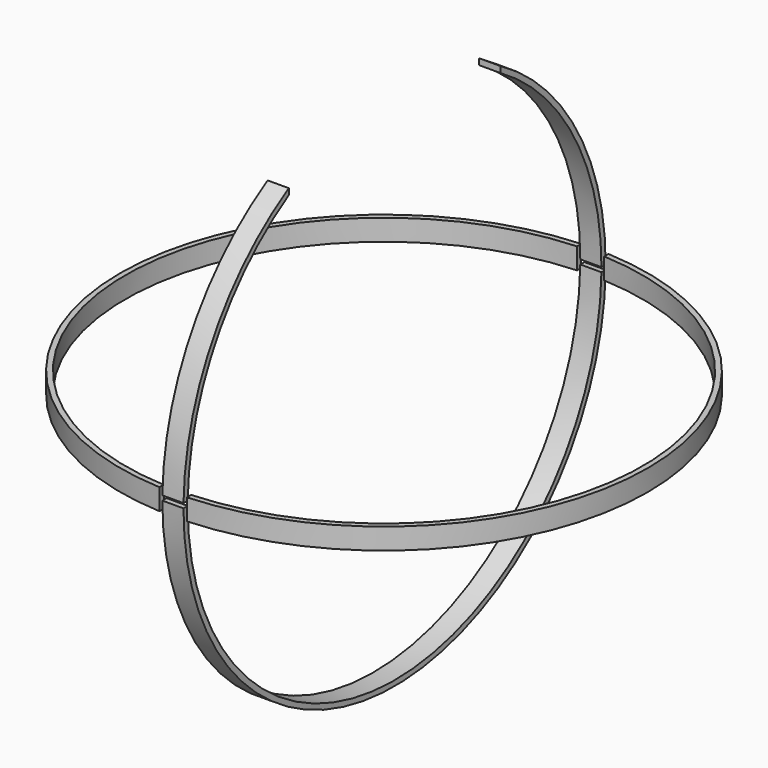
from build123d import *

# Parameters (mm, degrees)
F1_ANGLE_BACK = 89
F1_ANGLE      = 179
F2_ANGLE_BACK = 87
F2_ANGLE      = 174
F3_W          = 28.575
F3_H          = 19.05
F4_DEPTH      = 12.7


with BuildPart() as f1:
    # F0 (on Front) → F1 (revolve)
    with BuildSketch(Plane.XZ, mode=Mode.PRIVATE) as f1_sk:
        Polygon((2.286, -55.88), (0, -55.88), (-2.286, -55.88), (-2.286, -57.023), (2.286, -57.023), align=None)
    revolve(f1_sk.sketch.rotate(Axis((-27.94, 0, 0), (-1, 0, 0)), -F1_ANGLE_BACK), axis=Axis((-27.94, 0, 0), (-1, 0, 0)), revolution_arc=F1_ANGLE)


with BuildPart() as f1b:
    # F0 (on Front) → F1, piece 2 (revolve)
    with BuildSketch(Plane.XZ, mode=Mode.PRIVATE) as f1_sk:
        Polygon((-2.286, 55.88), (0, 55.88), (2.286, 55.88), (2.286, 57.023), (-2.286, 57.023), align=None)
    revolve(f1_sk.sketch.rotate(Axis((-27.94, 0, 0), (-1, 0, 0)), -F1_ANGLE_BACK), axis=Axis((-27.94, 0, 0), (-1, 0, 0)), revolution_arc=F1_ANGLE)

    # F3 (on Right) → F4 (cut, symmetric)
    with BuildSketch(Plane.YZ):
        with Locations((-14.2875, 51.435)):
            Rectangle(F3_W, F3_H)
        with Locations((14.2875, 51.435)):
            Rectangle(F3_W, F3_H)
    extrude(amount=F4_DEPTH, both=True, mode=Mode.SUBTRACT)


with BuildPart() as f2:
    # F0 (on Front) → F2 (revolve)
    with BuildSketch(Plane.XZ, mode=Mode.PRIVATE) as f2_sk:
        Polygon((-55.88, -2.286), (-55.88, 0), (-55.88, 2.286), (-57.023, 2.286), (-57.023, -2.286), align=None)
    revolve(f2_sk.sketch.rotate(Axis((0, 0, 27.94), (0, 0, 1)), -F2_ANGLE_BACK), axis=Axis((0, 0, 27.94), (0, 0, 1)), revolution_arc=F2_ANGLE)


with BuildPart() as f2b:
    # F0 (on Front) → F2, piece 2 (revolve)
    with BuildSketch(Plane.XZ, mode=Mode.PRIVATE) as f2_sk:
        Polygon((55.88, 2.286), (55.88, 0), (55.88, -2.286), (57.023, -2.286), (57.023, 2.286), align=None)
    revolve(f2_sk.sketch.rotate(Axis((0, 0, 27.94), (0, 0, 1)), -F2_ANGLE_BACK), axis=Axis((0, 0, 27.94), (0, 0, 1)), revolution_arc=F2_ANGLE)


solid = Compound([f1.part, f1b.part, f2.part, f2b.part])
